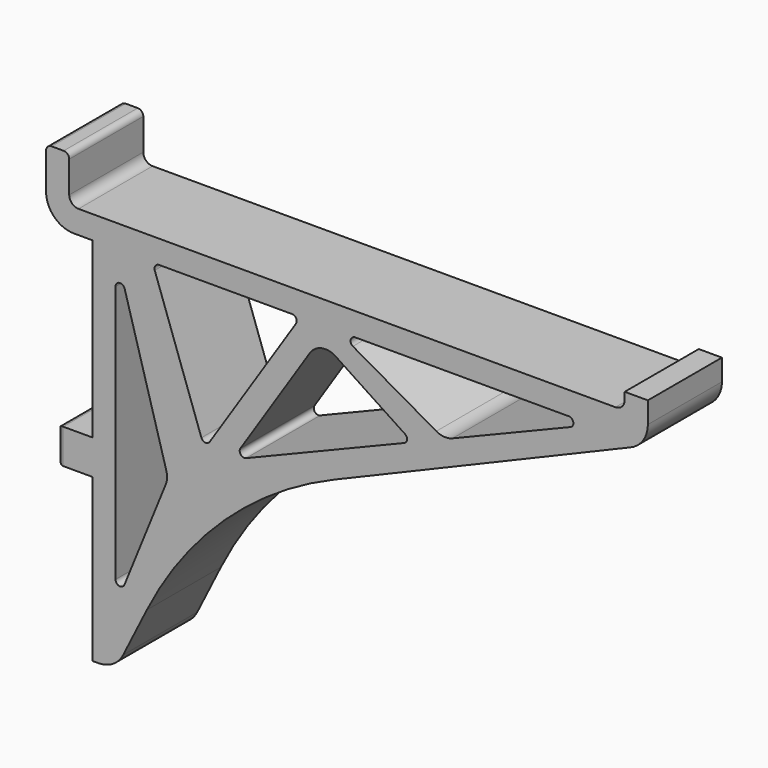
from build123d import *

# Parameters (mm, degrees)
F0_W     = 4.7625
F0_H     = 4.7625
F1_DEPTH = 12.7
F2_R     = 1.27
F3_R     = 3.81
F4_R     = 50.8
F5_R     = 0.635
F6_R     = 2.54
F7_R     = 0.762


with BuildPart() as f1:
    # F0 (on Front) → F1 (new body)
    with BuildSketch(Plane.XZ):
        Polygon((3.175, 9.525), (0, 9.525), (0, 0), (6.35, 0), (6.35, -23.8125), (6.35, -28.575), (6.35, -50.8), (9.525, -50.8), (22.225, -25.4), (82.55, 0), (82.55, 5.450216), (79.375, 5.450216), (79.375, 3.175), (3.175, 3.175), align=None)
        Polygon((9.525, -43.18), (9.525, 0), (16.747011, -25.4), align=None, mode=Mode.SUBTRACT)
        Polygon((14.605, 0), (34.925, 0), (21.733211, -20.196598), align=None, mode=Mode.SUBTRACT)
        Polygon((37.588557, -1.75892), (50.240452, -10.113791), (25.550904, -20.227582), align=None, mode=Mode.SUBTRACT)
        Polygon((40.005, 0), (74.93, 0), (54.61, -8.323855), align=None, mode=Mode.SUBTRACT)
        with Locations((3.96875, -26.19375)):
            Rectangle(F0_W, F0_H)
    extrude(amount=F1_DEPTH)

    # F2
    f2_edges = [f1.edges().sort_by_distance(p)[0] for p in [
        (79.375, -6.35, 3.175),
        (3.175, -6.35, 3.175),
    ]]
    fillet(f2_edges, radius=F2_R)

    # F3
    f3_edges = [f1.edges().sort_by_distance(p)[0] for p in [
        (82.55, -6.35, 0),
        (0, -6.35, 0),
        (9.525, -6.35, -50.8),
    ]]
    fillet(f3_edges, radius=F3_R)

    # F4
    f4_edges = [f1.edges().sort_by_distance(p)[0] for p in [
        (22.225, -6.35, -25.4),
    ]]
    fillet(f4_edges, radius=F4_R)

    # F5
    f5_edges = [f1.edges().sort_by_distance(p)[0] for p in [
        (74.93, -6.35, 0),
        (25.550904, -6.35, -20.227582),
        (50.240452, -6.35, -10.113791),
        (9.525, -6.35, 0),
        (9.525, -6.35, -43.18),
        (14.605, -6.35, 0),
        (34.925, -6.35, 0),
        (40.005, -6.35, 0),
        (21.733211, -6.35, -20.196598),
    ]]
    fillet(f5_edges, radius=F5_R)

    # F6
    f6_edges = [f1.edges().sort_by_distance(p)[0] for p in [
        (16.747011, -6.35, -25.4),
        (37.588557, -6.35, -1.75892),
        (54.61, -6.35, -8.323855),
    ]]
    fillet(f6_edges, radius=F6_R)

    # F7
    f7_edges = [f1.edges().sort_by_distance(p)[0] for p in [
        (0, -6.35, 9.525),
        (3.175, -6.35, 9.525),
        (1.5875, -6.35, -23.8125),
        (1.5875, -6.35, -28.575),
        (1.5875, -12.7, -26.19375),
        (1.5875, 0, -26.19375),
    ]]
    fillet(f7_edges, radius=F7_R)


solid = f1.part
